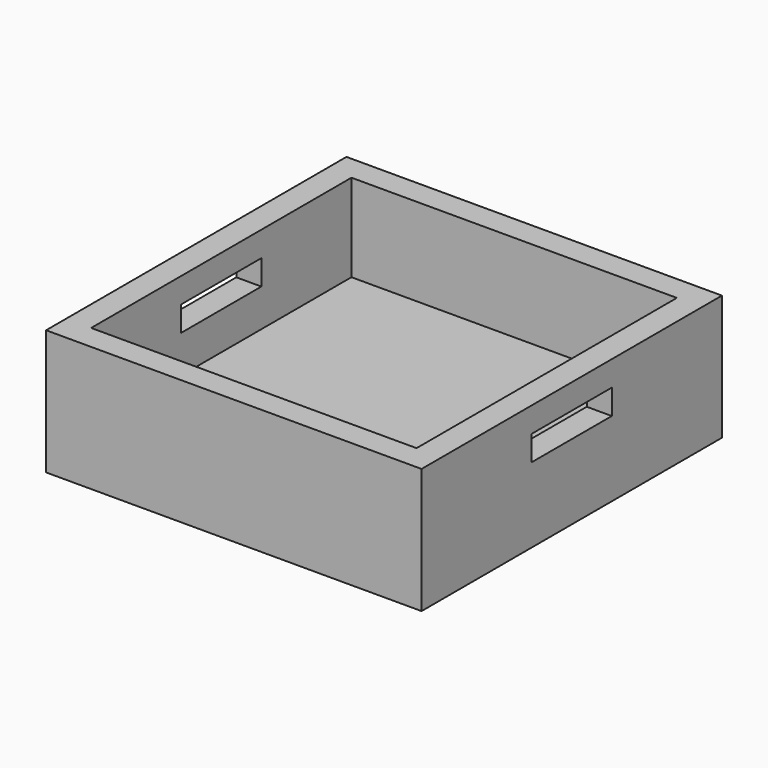
from build123d import *

# Parameters (mm, degrees)
F0_W     = 150
F0_H     = 150
F1_DEPTH = 50
F2_W     = 130
F2_H     = 130
F3_DEPTH = 35
F4_W     = 40
F4_H     = 10
F5_DEPTH = 150.001


with BuildPart() as f1:
    # F0 (on Top) → F1 (new body)
    with BuildSketch(Plane.XY):
        Rectangle(F0_W, F0_H)
    extrude(amount=F1_DEPTH)

    # F2 (on face) → F3 (cut)
    with BuildSketch(Plane.XY.offset(50)):
        Rectangle(F2_W, F2_H)
    extrude(amount=-F3_DEPTH, mode=Mode.SUBTRACT)

    # F4 (on face) → F5 (cut, through all)
    with BuildSketch(Plane.YZ.offset(75)):
        with Locations((0, 35)):
            Rectangle(F4_W, F4_H)
    extrude(amount=-F5_DEPTH, mode=Mode.SUBTRACT)


solid = f1.part
